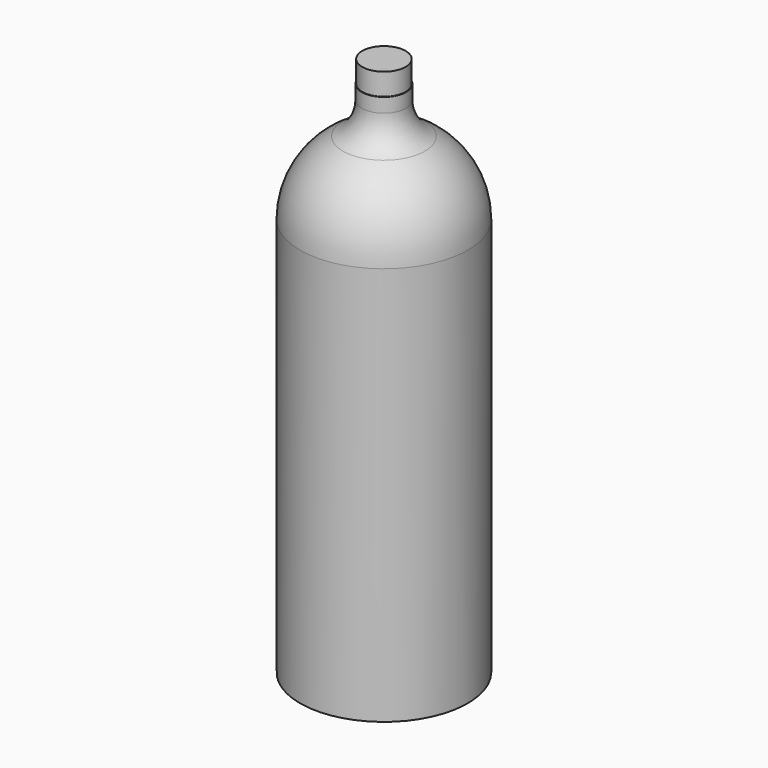
from build123d import *

# Parameters (mm, degrees)
F0_W   = 10
F0_H   = 6.3163529944
F0_H_2 = 0.8098035363


with BuildPart() as f1:
    # F0 (on Front) → F1 (revolve)
    with BuildSketch(Plane.XZ):
        with BuildLine():
            ThreePointArc((27.8232190758, -166.4383203266), (18.3135945844, -169.2388600849), (8.4453105927, -170.1838214397))
            Line((8.4453105927, -170.1838214397), (8.4453105927, -190.1838214397))
            Line((8.4453105927, -190.1838214397), (27.8232190758, -190.1838214397))
            Line((27.8232190758, -190.1838214397), (27.8232190758, -166.4383203266))
        make_face()
    revolve(axis=Axis((8.4453105927, 0, -82.1010128856), (0, 0, -1)))


with BuildPart() as f2:
    # F0 (on Front) → F2 (revolve)
    with BuildSketch(Plane.XZ):
        with BuildLine():
            Line((-1.7546894073, 137.8922386435), (-1.5546894073, 137.9321299466))
            Line((-1.5546894073, 137.9321299466), (-1.5546894073, 162.9321299466))
            Line((-1.5546894073, 162.9321299466), (-1.5546894073, 163.1321299466))
            Line((-1.5546894073, 163.1321299466), (-6.7546894073, 163.1321299466))
            Line((-6.7546894073, 163.1321299466), (-6.7546894073, 153.398299233))
            ThreePointArc((-6.7546894073, 153.398299233), (-10.1647441971, 140.8479907147), (-19.4571284317, 131.7490724929))
            ThreePointArc((-19.4571284317, 131.7490724929), (-40.8895630374, 110.7628578845), (-48.7546894073, 81.8161785603))
            Line((-48.7546894073, 81.8161785603), (-48.7546894073, -118.1838214397))
            Line((-48.7546894073, -118.1838214397), (-48.7546894073, -190.3838214397))
            Line((-48.7546894073, -190.3838214397), (-11.5546894073, -190.3838214397))
            Line((-11.5546894073, -190.3838214397), (8.4453105927, -190.3838214397))
            Line((8.4453105927, -190.3838214397), (8.4453105927, -190.1838214397))
            Line((8.4453105927, -190.1838214397), (-11.5546894073, -190.1838214397))
            Line((-11.5546894073, -190.1838214397), (-48.5546894073, -190.1838214397))
            Line((-48.5546894073, -190.1838214397), (-48.5546894073, -118.1838214397))
            Line((-48.5546894073, -118.1838214397), (-48.5546894073, 81.8161785603))
            ThreePointArc((-48.5546894073, 81.8161785603), (-40.7170634793, 110.6616457191), (-19.3595674561, 131.5744819547))
            ThreePointArc((-19.3595674561, 131.5744819547), (-9.9922446389, 140.7467785493), (-6.5546894073, 153.398299233))
            Line((-6.5546894073, 153.398299233), (-6.5546894073, 162.9321299466))
            Line((-6.5546894073, 162.9321299466), (-1.7546894073, 162.9321299466))
            Line((-1.7546894073, 162.9321299466), (-1.7546894073, 137.9321299466))
            Line((-1.7546894073, 137.9321299466), (-1.7546894073, 137.8922386435))
        make_face()
        with BuildLine():
            Line((-3.8488070544, 137.4745532336), (-1.7546894073, 137.8922386435))
            Line((-1.7546894073, 137.8922386435), (-1.7546894073, 137.9321299466))
            Line((-1.7546894073, 137.9321299466), (-1.7546894073, 162.9321299466))
            Line((-1.7546894073, 162.9321299466), (-6.5546894073, 162.9321299466))
            Line((-6.5546894073, 162.9321299466), (-6.5546894073, 153.398299233))
            ThreePointArc((-6.5546894073, 153.398299233), (-9.9922446389, 140.7467785493), (-19.3595674561, 131.5744819547))
            ThreePointArc((-19.3595674561, 131.5744819547), (-11.8200557802, 135.0920166651), (-3.8488070544, 137.4745532336))
        make_face()
    revolve(axis=Axis((8.4453105927, 0, -82.1010128856), (0, 0, -1)))


with BuildPart() as f3:
    # F0 (on Front) → F3 (revolve)
    with BuildSketch(Plane.XZ):
        with BuildLine():
            Line((18.4453105927, 137.9321299466), (18.4453105927, 131.6157769522))
            ThreePointArc((18.4453105927, 131.6157769522), (18.8190863016, 132.3954199072), (19.6609968672, 132.5922396658))
            ThreePointArc((19.6609968672, 132.5922396658), (48.9867442518, 114.3798416967), (60.4453105927, 81.8161785603))
            Line((60.4453105927, 81.8161785603), (60.4453105927, -118.1838214397))
            ThreePointArc((60.4453105927, -118.1838214397), (51.5246051616, -147.3072549502), (27.8232190758, -166.4383203266))
            Line((27.8232190758, -166.4383203266), (27.8232190758, -190.1838214397))
            Line((27.8232190758, -190.1838214397), (65.4453105927, -190.1838214397))
            Line((65.4453105927, -190.1838214397), (65.4453105927, -118.1838214397))
            Line((65.4453105927, -118.1838214397), (65.4453105927, 81.8161785603))
            ThreePointArc((65.4453105927, 81.8161785603), (57.5270244395, 110.7986795885), (35.9721398609, 131.7288389826))
            ThreePointArc((35.9721398609, 131.7288389826), (28.5619768516, 135.1483427637), (20.7394282397, 137.4745532336))
            Line((20.7394282397, 137.4745532336), (18.6453105927, 137.8922386435))
            Line((18.6453105927, 137.8922386435), (18.4453105927, 137.9321299466))
        make_face()
    revolve(axis=Axis((8.4453105927, 0, -82.1010128856), (0, 0, -1)))


with BuildPart() as f4:
    # F0 (on Front) → F4 (revolve)
    with BuildSketch(Plane.XZ):
        with BuildLine():
            ThreePointArc((58.4453105927, -118.1838214397), (43.800649652, -153.5391604991), (8.4453105927, -168.1838214397))
            Line((8.4453105927, -168.1838214397), (8.4453105927, -168.6838210945))
            ThreePointArc((8.4453105926, -168.6838210945), (44.1542027984, -153.8927136455), (58.9453102474, -118.1838214397))
            Line((58.9453102474, -118.1838214397), (58.9453102474, 81.8161785603))
            ThreePointArc((58.9453102474, 81.8161785603), (47.8172795501, 113.4405050438), (19.3374673809, 131.1275452583))
            ThreePointArc((19.3374673809, 131.1275452583), (19.055488846, 131.3026645905), (18.9453102474, 131.6157769522))
            ThreePointArc((18.9453102474, 131.6157769522), (19.1321982309, 132.0055986989), (19.5531538044, 132.1040086461))
            ThreePointArc((19.5531538044, 132.1040086461), (48.5969230435, 114.0667297674), (59.9453109379, 81.8161785603))
            Line((59.9453109379, 81.8161785603), (59.9453109379, -118.1838214397))
            ThreePointArc((59.9453109379, -118.1838214397), (44.8613100679, -154.599820915), (8.4453105926, -169.683821785))
            Line((8.4453105927, -169.683821785), (8.4453105927, -170.1838214397))
            ThreePointArc((8.4453105927, -170.1838214397), (18.3135945844, -169.2388600849), (27.8232190758, -166.4383203266))
            ThreePointArc((27.8232190758, -166.4383203266), (51.5246051616, -147.3072549502), (60.4453105927, -118.1838214397))
            Line((60.4453105927, -118.1838214397), (60.4453105927, 81.8161785603))
            ThreePointArc((60.4453105927, 81.8161785603), (48.9867442518, 114.3798416967), (19.6609968672, 132.5922396658))
            ThreePointArc((19.6609968672, 132.5922396658), (18.8190863016, 132.3954199072), (18.4453105927, 131.6157769522))
            ThreePointArc((18.4453105927, 131.6157769522), (18.6656676377, 130.9895526611), (19.2296243181, 130.6393142386))
            ThreePointArc((19.2296243181, 130.6393142386), (47.4274583418, 113.1273931145), (58.4453105927, 81.8161785603))
            Line((58.4453105927, 81.8161785603), (58.4453105927, -118.1838214397))
        make_face()
    revolve(axis=Axis((8.4453105927, 0, -82.1010128856), (0, 0, -1)))


with BuildPart() as f5:
    # F0 (on Front) → F5 (revolve)
    with BuildSketch(Plane.XZ):
        Polygon((8.4453105927, 163.1321299466), (8.4453105927, 137.9321299466), (18.4453105927, 137.9321299466), (18.4453105927, 162.9321299466), (18.4453105927, 163.1321299466), align=None)
        Polygon((8.4453105927, 178.1321299466), (8.4453105927, 163.1321299466), (18.4453105927, 163.1321299466), (23.2453105927, 163.1321299466), (23.2453105927, 178.1321299466), align=None)
    revolve(axis=Axis((8.4453105927, 0, -82.1010128856), (0, 0, -1)))


with BuildPart() as f6:
    # F0 (on Front) → F6 (revolve)
    with BuildSketch(Plane.XZ):
        with Locations((13.4453105927, 134.7739534494)):
            Rectangle(F0_W, F0_H)
    revolve(axis=Axis((8.4453105927, 0, -82.1010128856), (0, 0, -1)))


with BuildPart() as f7:
    # F0 (on Front) → F7 (revolve)
    with BuildSketch(Plane.XZ):
        with Locations((13.4453105927, 131.2108751841)):
            Rectangle(F0_W, F0_H_2)
    revolve(axis=Axis((8.4453105927, 0, -82.1010128856), (0, 0, -1)))


solid = Compound([f1.part, f2.part, f3.part, f4.part, f5.part, f6.part, f7.part])
